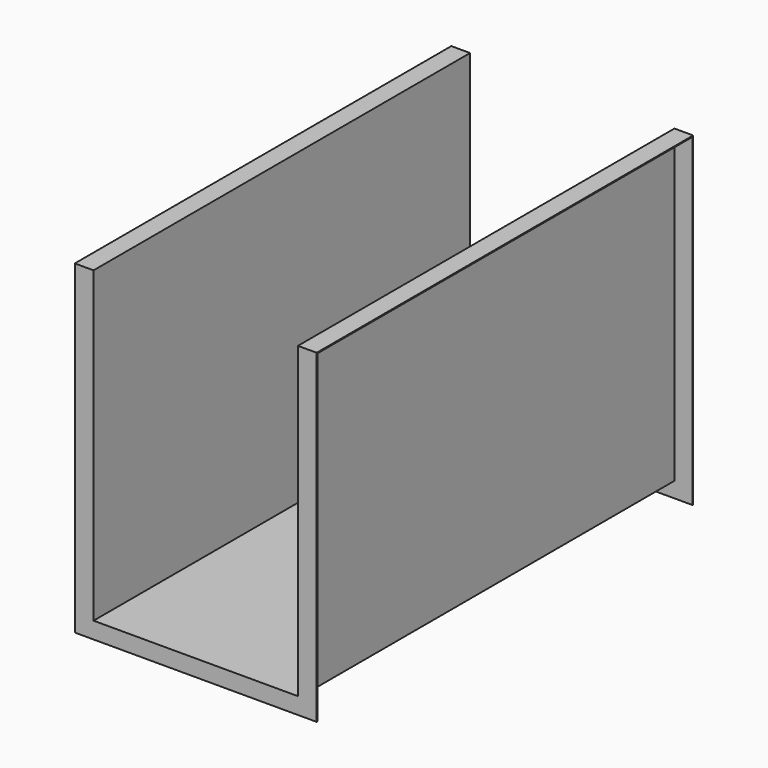
from build123d import *

# Parameters (mm, degrees)
F1_DEPTH = 1500
F2_T     = -3
F3_W     = 60
F3_H     = 1500
F4_DEPTH = 3
F6_DEPTH = 3
F8_DEPTH = 3


with BuildPart() as f1:
    # F0 (on Front) → F1 (new body)
    with BuildSketch(Plane.XZ):
        Polygon((330, 990), (-330, 990), (-330, 0), (0, 0), (330, 0), align=None)
    extrude(amount=F1_DEPTH)

    # F2
    f2_openings = [f1.faces().sort_by_distance(p)[0] for p in [
        (0, -1500, 495),
        (0, -750, 990),
        (0, 0, 495),
    ]]
    offset(amount=F2_T, openings=f2_openings)

    # F3 (on face) → F4 (join)
    with BuildSketch(Plane.XY.offset(990)):
        with Locations((-357, -750)):
            Rectangle(F3_W, F3_H)
        with Locations((357, -750)):
            Rectangle(F3_W, F3_H)
    extrude(amount=-F4_DEPTH)

    # F5 (on face) → F6 (join)
    with BuildSketch(Plane(origin=(0, 0, 0), x_dir=(-1, 0, 0), z_dir=(0, 1, 0))):
        Polygon((387, 990), (327, 990), (327, 3), (-327, 3), (-327, 990), (-387, 990), (-387, -50), (-75.369177, -50), (387, -50), align=None)
    extrude(amount=F6_DEPTH)

    # F7 (on face) → F8 (join)
    with BuildSketch(Plane.XZ.offset(1500)):
        Polygon((387, -50), (387, 990), (327, 990), (327, 3), (-327, 3), (-327, 990), (-387, 990), (-387, -50), (-70.356654, -50), align=None)
    extrude(amount=F8_DEPTH)


solid = f1.part
